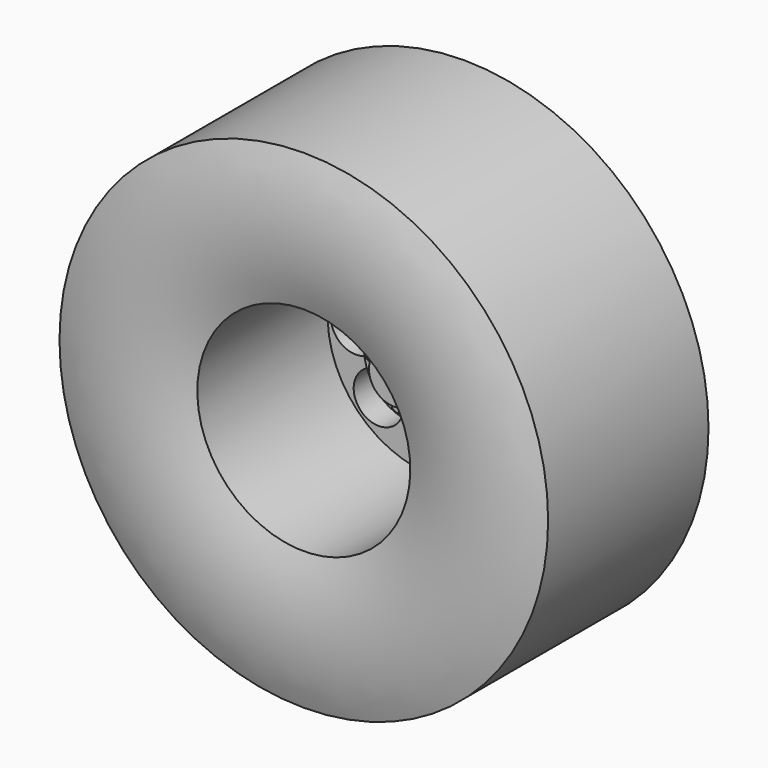
from build123d import *

# Parameters (mm, degrees)
F0_R     = 2
F3_DEPTH = 32.004
F0_R_2   = 4
F0_R_3   = 0.5
F4_DEPTH = 5
F5_DEPTH = 5.5
F6_DEPTH = 7
F7_R     = 3
F7_R_2   = 2
F8_DEPTH = 8
F7_R_3   = 17.816411
F7_R_4   = 9.257541
F9_DEPTH = 12.7


with BuildPart() as f2:
    # F1 (on Right) → F2 (revolve)
    with BuildSketch(Plane.YZ):
        with BuildLine():
            Line((-3, 0), (0, 0))
            Line((0, 0), (0, 19.5))
            Line((0, 19.5), (-16, 19.5))
            ThreePointArc((-16, 19.5), (-17, 14), (-16, 8.5))
            Line((-16, 8.5), (-3, 8.5))
            Line((-3, 8.5), (-3, 0))
        make_face()
    revolve(axis=Axis((0, -1.5, 0), (0, 1, 0)))

    # F0 (on Front) → F3 (cut)
    with BuildSketch(Plane.XZ):
        with Locations((0, 6.25)):
            Circle(F0_R)
        with Locations((-4.419418, 4.419418)):
            Circle(F0_R)
        with Locations((-6.25, 0)):
            Circle(F0_R)
        with Locations((-4.419418, -4.419418)):
            Circle(F0_R)
        with Locations((0, -6.25)):
            Circle(F0_R)
        with Locations((4.419418, -4.419418)):
            Circle(F0_R)
        with Locations((6.25, 0)):
            Circle(F0_R)
        with Locations((4.419418, 4.419418)):
            Circle(F0_R)
    extrude(amount=F3_DEPTH, mode=Mode.SUBTRACT)

    # F0 (on Front) → F4 (join)
    with BuildSketch(Plane.XZ):
        Circle(F0_R_2)
        with Locations((-0.927052, -2.853171)):
            Circle(F0_R_3, mode=Mode.SUBTRACT)
        with Locations((-2.427053, -1.763357)):
            Circle(F0_R_3, mode=Mode.SUBTRACT)
        with Locations((0.927052, -2.853171)):
            Circle(F0_R_3, mode=Mode.SUBTRACT)
        with Locations((2.427053, -1.763357)):
            Circle(F0_R_3, mode=Mode.SUBTRACT)
        with Locations((-3.000002, 0)):
            Circle(F0_R_3, mode=Mode.SUBTRACT)
        with Locations((-2.427053, 1.763357)):
            Circle(F0_R_3, mode=Mode.SUBTRACT)
        with Locations((-0.927052, 2.853171)):
            Circle(F0_R_3, mode=Mode.SUBTRACT)
        Circle(F0_R, mode=Mode.SUBTRACT)
        with Locations((2.427053, 1.763357)):
            Circle(F0_R_3, mode=Mode.SUBTRACT)
        with Locations((3.000002, 0)):
            Circle(F0_R_3, mode=Mode.SUBTRACT)
        with Locations((0.927052, 2.853171)):
            Circle(F0_R_3, mode=Mode.SUBTRACT)
    extrude(amount=F4_DEPTH)

    # F0 (on Front) → F5 (join)
    with BuildSketch(Plane.XZ):
        with Locations((0.927052, 2.853171)):
            Circle(F0_R_3)
        with Locations((-0.927052, 2.853171)):
            Circle(F0_R_3)
        with Locations((-2.427053, 1.763357)):
            Circle(F0_R_3)
        with Locations((-3.000002, 0)):
            Circle(F0_R_3)
        with Locations((-2.427053, -1.763357)):
            Circle(F0_R_3)
        with Locations((-0.927052, -2.853171)):
            Circle(F0_R_3)
        with Locations((0.927052, -2.853171)):
            Circle(F0_R_3)
        with Locations((2.427053, -1.763357)):
            Circle(F0_R_3)
        with Locations((3.000002, 0)):
            Circle(F0_R_3)
        with Locations((2.427053, 1.763357)):
            Circle(F0_R_3)
    extrude(amount=F5_DEPTH)

    # F0 (on Front) → F6 (join)
    with BuildSketch(Plane.XZ):
        Circle(F0_R)
    extrude(amount=F6_DEPTH)

    # F7 (on face) → F8 (join)
    with BuildSketch(Plane.XZ):
        Circle(F7_R)
        Circle(F7_R_2, mode=Mode.SUBTRACT)
    extrude(amount=-F8_DEPTH)

    # F7 (on face) → F9 (cut)
    with BuildSketch(Plane.XZ):
        Circle(F7_R_3)
        Circle(F7_R_4, mode=Mode.SUBTRACT)
    extrude(amount=F9_DEPTH, mode=Mode.SUBTRACT)


solid = f2.part
